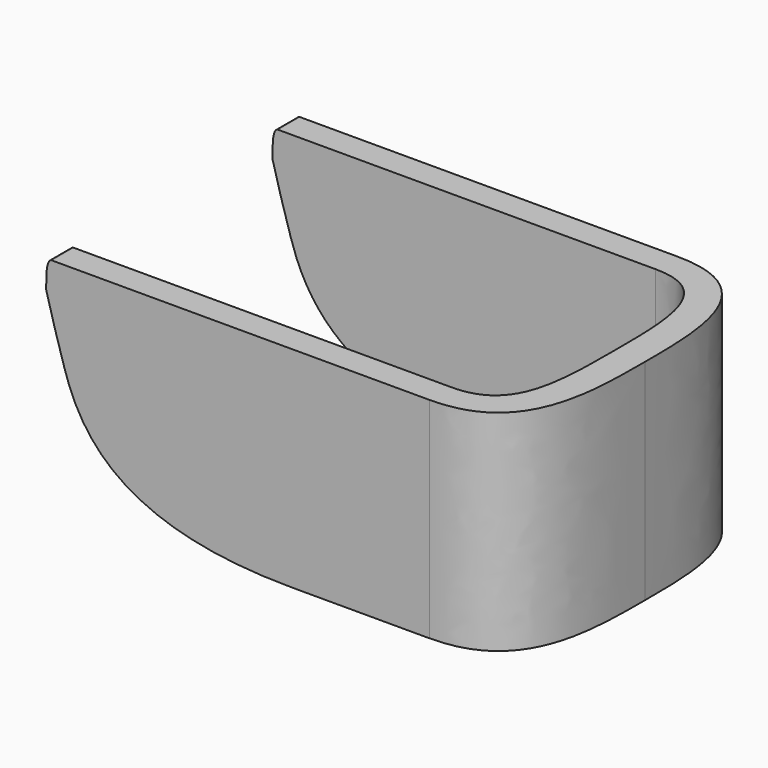
from build123d import *

# Parameters (mm, degrees)
F0_W     = 104
F0_H     = 46
F1_DEPTH = 34
F3_DEPTH = 46.001
F5_DEPTH = 46.0010001
F7_DEPTH = 68.0010001


with BuildPart() as f1:
    # F0 (on Front) → F1 (new body, symmetric)
    with BuildSketch(Plane.XZ):
        with Locations((4.4662589207, 23)):
            Rectangle(F0_W, F0_H)
    extrude(amount=F1_DEPTH, both=True)

    # F2 (on face) → F3 (cut, through all)
    with BuildSketch(Plane.XY.offset(46)):
        with BuildLine():
            Line((56.4662589207, 34), (36.4662589207, 34))
            add(Edge.make_bspline(
                [(36.4662589207, 34), (56.4662589207, 34), (56.4662589207, 15), (56.4662589207, 0)],
                knots=[0, 0, 0, 0, 39.4461658466, 39.4461658466, 39.4461658466, 39.4461658466], degree=3))
            Line((56.4662589207, 0), (56.4662589207, 34))
        make_face()
        with BuildLine():
            Line((56.4662589207, -34), (56.4662589207, 0))
            add(Edge.make_bspline(
                [(56.4662589207, 0), (56.4662589207, -15), (56.4662589207, -34), (36.4662589207, -34)],
                knots=[0, 0, 0, 0, 39.4461658466, 39.4461658466, 39.4461658466, 39.4461658466], degree=3))
            Line((36.4662589207, -34), (56.4662589207, -34))
        make_face()
    extrude(amount=-F3_DEPTH, mode=Mode.SUBTRACT)

    # F4 (on face) → F5 (cut, through all)
    with BuildSketch(Plane.XY.offset(46)):
        with BuildLine():
            Line((36.4662589207, 28), (-47.5337410793, 28))
            Line((-47.5337410793, 28), (-47.5337410793, -28))
            Line((-47.5337410793, -28), (36.4662589207, -28))
            add(Edge.make_bspline(
                [(49.7592477622, 0), (49.7592477622, -15), (49.7592477622, -28), (36.4662589207, -28)],
                knots=[0, 0, 0, 0, 30.9952182173, 30.9952182173, 30.9952182173, 30.9952182173], degree=3))
            add(Edge.make_bspline(
                [(36.4662589207, 28), (49.7518497669, 28), (49.7537801128, 15), (49.7592477622, 0)],
                knots=[0, 0, 0, 0, 30.9952182173, 30.9952182173, 30.9952182173, 30.9952182173], degree=3))
        make_face()
    extrude(amount=-F5_DEPTH, mode=Mode.SUBTRACT)

    # F6 (on face) → F7 (cut, through all)
    with BuildSketch(Plane.XZ.offset(34)):
        with BuildLine():
            Line((-47.5337410793, 0), (6.4662589207, 0))
            add(Edge.make_bspline(
                [(6.4662589207, 0), (-29.5337410793, 0), (-39.5337410793, 13), (-43.5337410793, 26.2024675506)],
                knots=[0, 0, 0, 0, 56.4497059845, 56.4497059845, 56.4497059845, 56.4497059845], degree=3))
            add(Edge.make_bspline(
                [(-43.5337410793, 26.2024675506), (-44.6908287704, 29.8478620036), (-46.2817139924, 35.2189317346), (-47.5337410793, 40)],
                knots=[0, 0, 0, 0, 14.3656500616, 14.3656500616, 14.3656500616, 14.3656500616], degree=3))
            Line((-47.5337410793, 40), (-47.5337410793, 0))
        make_face()
        with BuildLine():
            Line((-47.5337410793, 46), (-47.5337410793, 40))
            add(Edge.make_bspline(
                [(-47.5337410793, 40), (-47.5337410793, 42.4598008394), (-47.5337410793, 46), (-46.2817139924, 46)],
                knots=[0, 0, 0, 0, 6.1292390903, 6.1292390903, 6.1292390903, 6.1292390903], degree=3))
            Line((-46.2817139924, 46), (-47.5337410793, 46))
        make_face()
    extrude(amount=-F7_DEPTH, mode=Mode.SUBTRACT)


solid = f1.part
